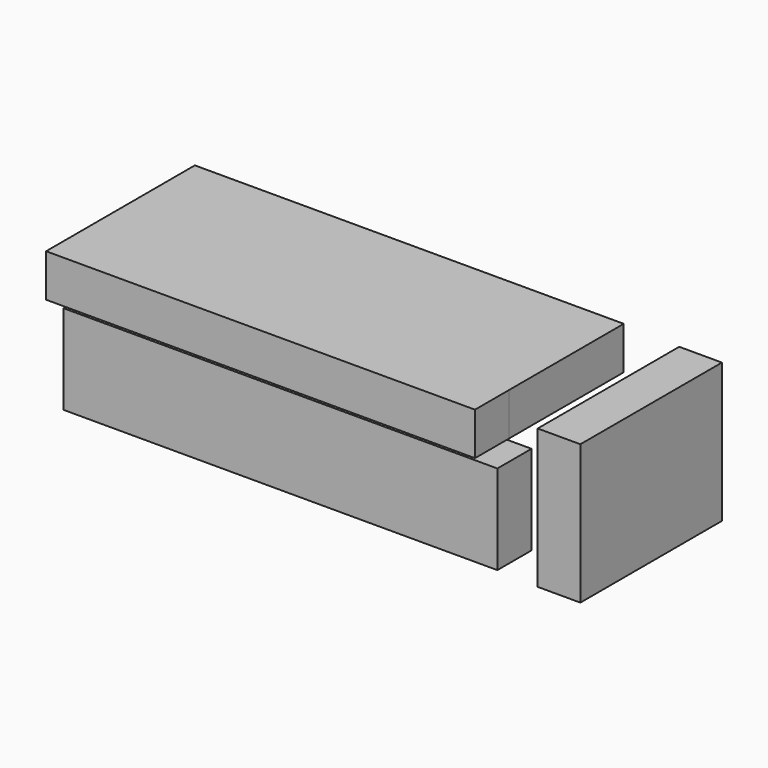
from build123d import *

# Parameters (mm, degrees)
F0_W      = 255.137317
F0_H      = 85.220656
F1_DEPTH  = 25.4
F1_FACE_W = 255.137316
F1_FACE_H = 25.4
F2_DEPTH  = 25.4
F3_W      = 258.07064
F3_H      = 53.233352
F4_DEPTH  = 25.4
F5_W      = 105.262048
F5_H      = 82.939684
F6_DEPTH  = 25.4


with BuildPart() as f1:
    # F0 (on Top) → F1 (new body)
    with BuildSketch(Plane.XY):
        with Locations((-42.680238, 20.195064)):
            Rectangle(F0_W, F0_H)
    extrude(amount=F1_DEPTH)

    # F1_face (on face) → F2 (join)
    with BuildSketch(Plane(origin=(-42.680237, -22.415264, 12.7), x_dir=(1, 0, 0), z_dir=(0, -1, 0))):
        Rectangle(F1_FACE_W, F1_FACE_H)
    extrude(amount=F2_DEPTH)


with BuildPart() as f4:
    # F3 (on Front) → F4 (new body)
    with BuildSketch(Plane.XZ):
        with Locations((-69.079507, -59.564503)):
            Rectangle(F3_W, F3_H)
    extrude(amount=-F4_DEPTH)


with BuildPart() as f6:
    # F5 (on Right) → F6 (new body)
    with BuildSketch(Plane.YZ):
        with Locations((157.531973, -115.613803)):
            Rectangle(F5_W, F5_H)
    extrude(amount=F6_DEPTH)


solid = Compound([f1.part, f4.part, f6.part])
